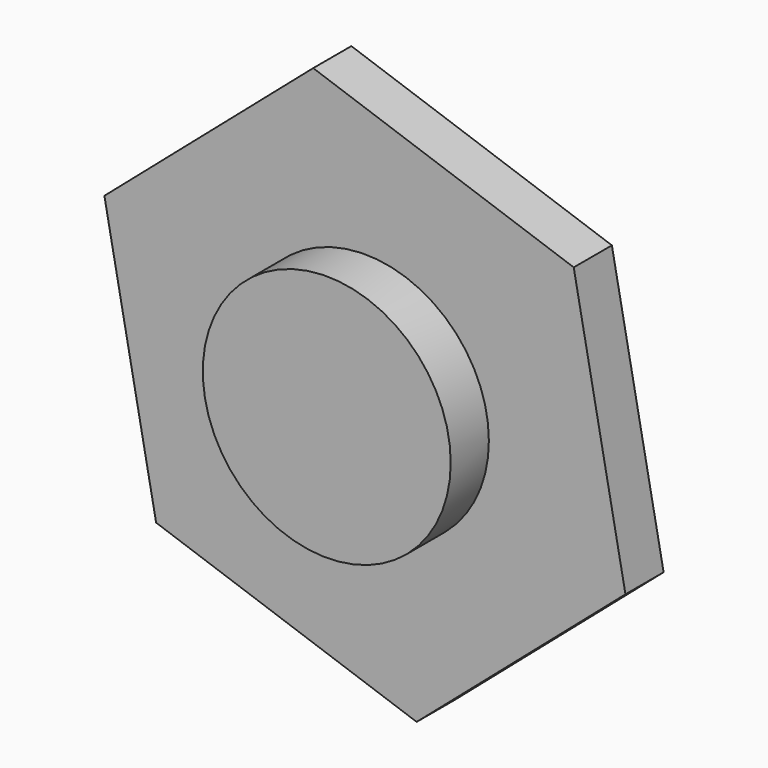
from build123d import *

# Parameters (mm, degrees)
F1_DEPTH = 10
F2_R     = 25.98667
F3_DEPTH = 20


with BuildPart() as f1:
    # F0 (on Front) → F1 (new body)
    with BuildSketch(Plane.XZ):
        Polygon((10.844505, -56.802116), (54.614328, -19.009441), (43.769823, 37.792675), (-10.844505, 56.802116), (-54.614328, 19.009441), (-43.769823, -37.792675), align=None)
    extrude(amount=F1_DEPTH)

    # F2 (on Front) → F3 (join)
    with BuildSketch(Plane.XZ):
        Circle(F2_R)
    extrude(amount=F3_DEPTH)


solid = f1.part
